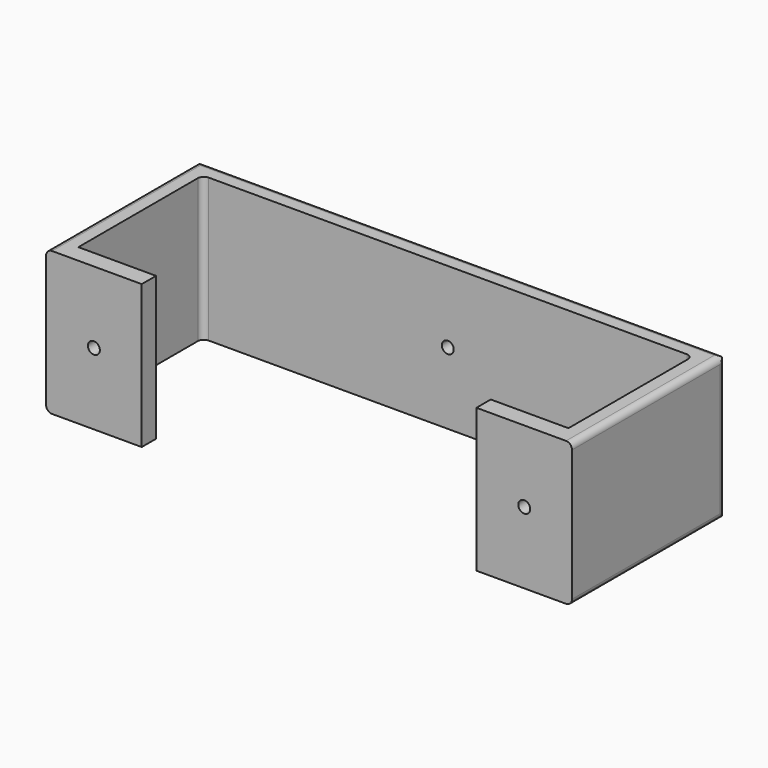
from build123d import *

# Parameters (mm, degrees)
F1_DEPTH = 38.1
F2_R     = 1.5875
F3_DEPTH = 4.7625
F4_R     = 1.5875
F5_DEPTH = 4.7625
F7_DEPTH = 50.8
F9_DEPTH = 139.7


with BuildPart() as f1:
    # F0 (on Top) → F1 (new body)
    with BuildSketch(Plane.XY):
        with BuildLine():
            Line((-69.8627, -25.4), (-44.4627, -25.4))
            Line((-44.4627, -25.4), (-44.45, -20.6375))
            Line((-44.45, -20.6375), (-65.1002, -20.6375))
            Line((-65.1002, -20.6375), (-65.1002, 19.0373))
            ThreePointArc((-65.1002, 19.0373), (-64.631512, 20.168812), (-63.5, 20.6375))
            Line((-63.5, 20.6375), (63.4746, 20.6375))
            ThreePointArc((63.4746, 20.6375), (64.606112, 20.168812), (65.0748, 19.0373))
            Line((65.0748, 19.0373), (65.0748, -20.6375))
            Line((65.0748, -20.6375), (44.4373, -20.6375))
            Line((44.4373, -20.6375), (44.4373, -25.4))
            Line((44.4373, -25.4), (69.8373, -25.4))
            Line((69.8373, -25.4), (69.8373, 23.7998))
            ThreePointArc((69.8373, 23.7998), (69.368612, 24.931312), (68.2371, 25.4))
            Line((68.2371, 25.4), (-68.2625, 25.4))
            ThreePointArc((-68.2625, 25.4), (-69.394012, 24.931312), (-69.8627, 23.7998))
            Line((-69.8627, 23.7998), (-69.8627, -25.4))
        make_face()
    extrude(amount=F1_DEPTH)

    # F2 (on face) → F3 (cut)
    with BuildSketch(Plane.XZ.offset(25.4)):
        with Locations((-57.1627, 19.05)):
            Circle(F2_R)
        with Locations((57.1373, 19.05)):
            Circle(F2_R)
    extrude(amount=-F3_DEPTH, mode=Mode.SUBTRACT)

    # F4 (on face) → F5 (cut)
    with BuildSketch(Plane(origin=(0, 25.4, 0), x_dir=(-1, 0, 0), z_dir=(0, 1, 0))):
        with Locations((0, 19.05)):
            Circle(F4_R)
    extrude(amount=-F5_DEPTH, mode=Mode.SUBTRACT)

    # F6 (on face) → F7 (cut)
    with BuildSketch(Plane(origin=(0, 25.4, 0), x_dir=(-1, 0, 0), z_dir=(0, 1, 0))):
        with BuildLine():
            ThreePointArc((-69.8373, 36.4998), (-69.368612, 37.631312), (-68.2371, 38.1))
            Line((-68.2371, 38.1), (-69.8373, 38.1))
            Line((-69.8373, 38.1), (-69.8373, 36.4998))
        make_face()
        with BuildLine():
            ThreePointArc((-68.2371, 0), (-69.368612, 0.468688), (-69.8373, 1.6002))
            Line((-69.8373, 1.6002), (-69.8373, 0))
            Line((-69.8373, 0), (-68.2371, 0))
        make_face()
        with BuildLine():
            ThreePointArc((69.8627, 1.6002), (69.394012, 0.468688), (68.2625, 0))
            Line((68.2625, 0), (69.8627, 0))
            Line((69.8627, 0), (69.8627, 1.6002))
        make_face()
        with BuildLine():
            ThreePointArc((68.2625, 38.1), (69.394012, 37.631312), (69.8627, 36.4998))
            Line((69.8627, 36.4998), (69.8627, 38.1))
            Line((69.8627, 38.1), (68.2625, 38.1))
        make_face()
    extrude(amount=-F7_DEPTH, mode=Mode.SUBTRACT)

    # F8 (on face) → F9 (cut)
    with BuildSketch(Plane.YZ.offset(69.8373)):
        with BuildLine():
            ThreePointArc((23.7998, 38.1), (24.931312, 37.631312), (25.4, 36.4998))
            Line((25.4, 36.4998), (25.4, 38.1))
            Line((25.4, 38.1), (23.7998, 38.1))
        make_face()
        with BuildLine():
            ThreePointArc((25.4, 1.6002), (24.931312, 0.468688), (23.7998, 0))
            Line((23.7998, 0), (25.4, 0))
            Line((25.4, 0), (25.4, 1.6002))
        make_face()
    extrude(amount=-F9_DEPTH, mode=Mode.SUBTRACT)


solid = f1.part
